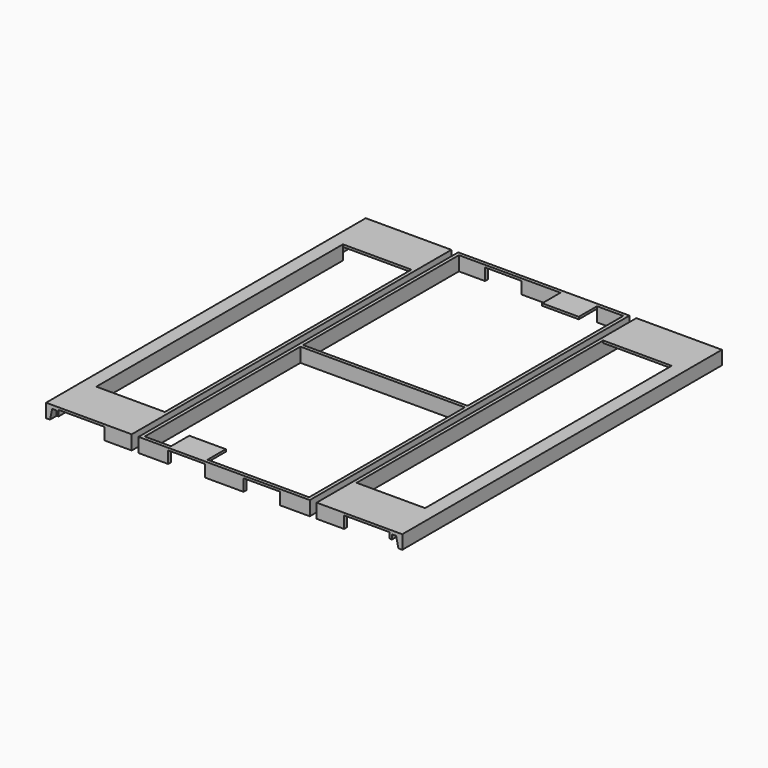
from build123d import *

# Parameters (mm, degrees)
F1_DEPTH  = 175
F2_W      = 19.5
F2_H      = 135
F3_DEPTH  = 1.001
F4_W      = 0.5
F4_H      = 135
F5_DEPTH  = 5.25
F6_W      = 19.5
F6_H      = 135
F7_DEPTH  = 1.001
F8_W      = 0.5
F8_H      = 135
F9_DEPTH  = 5.25
F10_W     = 10.5
F10_H     = 135
F11_DEPTH = 6.251
F12_W     = 10.5
F12_H     = 18.5
F13_DEPTH = 5.25
F14_W     = 1
F14_H     = 20
F15_DEPTH = 2.75
F16_W     = 10.5
F16_H     = 135
F17_DEPTH = 6.251
F18_W     = 10.5
F18_H     = 18.5
F19_DEPTH = 5.25
F20_W     = 1
F20_H     = 20
F21_DEPTH = 2.75
F22_W     = 72
F22_H     = 172
F23_DEPTH = 6.251
F24_W     = 1.5
F24_H     = 6.25
F25_DEPTH = 72
F26_W     = 16
F26_H     = 1
F27_DEPTH = 10
F28_W     = 16
F28_H     = 1
F29_DEPTH = 10


with BuildPart() as f1:
    # F0 (on Front) → F1 (new body)
    with BuildSketch(Plane.XZ):
        Polygon((0, 6.25), (0, 0.25), (1.7, 0.25), (2.7, 4.75), (4.5, 4.75), (4.5, 0), (5.5, 0), (5.5, 5.25), (25.5, 5.25), (25.5, 0), (37.5, 0), (37.5, 6.25), align=None)
        Polygon((115.5, 6.25), (40.5, 6.25), (40.5, 0), (53.5, 0), (53.5, 5.25), (69.5, 5.25), (69.5, 0), (86.5, 0), (86.5, 5.25), (102.5, 5.25), (102.5, 0), (115.5, 0), align=None)
        Polygon((156, 0.25), (156, 6.25), (118.5, 6.25), (118.5, 0), (130.5, 0), (130.5, 5.25), (150.5, 5.25), (150.5, 0), (151.5, 0), (151.5, 4.75), (153.3, 4.75), (154.3, 0.25), align=None)
    extrude(amount=-F1_DEPTH)

    # F2 (on face) → F3 (cut, through all)
    with BuildSketch(Plane(origin=(0, 0, 5.25), x_dir=(1, 0, 0), z_dir=(0, 0, -1))):
        with Locations((15.75, -87.5)):
            Rectangle(F2_W, F2_H)
    extrude(amount=-F3_DEPTH, mode=Mode.SUBTRACT)

    # F4 (on face) → F5 (join)
    with BuildSketch(Plane(origin=(0, 0, 5.25), x_dir=(1, 0, 0), z_dir=(0, 0, -1))):
        with Locations((5.75, -87.5)):
            Rectangle(F4_W, F4_H)
    extrude(amount=F5_DEPTH)

    # F6 (on face) → F7 (cut, through all)
    with BuildSketch(Plane(origin=(0, 0, 5.25), x_dir=(1, 0, 0), z_dir=(0, 0, -1))):
        with Locations((140.25, -87.5)):
            Rectangle(F6_W, F6_H)
    extrude(amount=-F7_DEPTH, mode=Mode.SUBTRACT)

    # F8 (on face) → F9 (join)
    with BuildSketch(Plane(origin=(0, 0, 5.25), x_dir=(1, 0, 0), z_dir=(0, 0, -1))):
        with Locations((150.25, -87.5)):
            Rectangle(F8_W, F8_H)
    extrude(amount=F9_DEPTH)

    # F10 (on face) → F11 (cut, through all)
    with BuildSketch(Plane(origin=(0, 0, 0), x_dir=(1, 0, 0), z_dir=(0, 0, -1))):
        with Locations((30.75, -87.5)):
            Rectangle(F10_W, F10_H)
    extrude(amount=-F11_DEPTH, mode=Mode.SUBTRACT)

    # F12 (on face) → F13 (cut)
    with BuildSketch(Plane(origin=(0, 0, 0), x_dir=(1, 0, 0), z_dir=(0, 0, -1))):
        with Locations((30.75, -10.75)):
            Rectangle(F12_W, F12_H)
        with Locations((30.75, -164.25)):
            Rectangle(F12_W, F12_H)
    extrude(amount=-F13_DEPTH, mode=Mode.SUBTRACT)

    # F14 (on face) → F15 (cut)
    with BuildSketch(Plane(origin=(0, 0, 0), x_dir=(1, 0, 0), z_dir=(0, 0, -1))):
        with Locations((5, -10)):
            Rectangle(F14_W, F14_H)
        with Locations((5, -165)):
            Rectangle(F14_W, F14_H)
    extrude(amount=-F15_DEPTH, mode=Mode.SUBTRACT)

    # F16 (on face) → F17 (cut, through all)
    with BuildSketch(Plane(origin=(0, 0, 0), x_dir=(1, 0, 0), z_dir=(0, 0, -1))):
        with Locations((125.25, -87.5)):
            Rectangle(F16_W, F16_H)
    extrude(amount=-F17_DEPTH, mode=Mode.SUBTRACT)

    # F18 (on face) → F19 (cut)
    with BuildSketch(Plane(origin=(0, 0, 0), x_dir=(1, 0, 0), z_dir=(0, 0, -1))):
        with Locations((125.25, -10.75)):
            Rectangle(F18_W, F18_H)
        with Locations((125.25, -164.25)):
            Rectangle(F18_W, F18_H)
    extrude(amount=-F19_DEPTH, mode=Mode.SUBTRACT)

    # F20 (on face) → F21 (cut)
    with BuildSketch(Plane(origin=(0, 0, 0), x_dir=(1, 0, 0), z_dir=(0, 0, -1))):
        with Locations((151, -10)):
            Rectangle(F20_W, F20_H)
        with Locations((151, -165)):
            Rectangle(F20_W, F20_H)
    extrude(amount=-F21_DEPTH, mode=Mode.SUBTRACT)

    # F22 (on face) → F23 (cut, through all)
    with BuildSketch(Plane.XY.offset(6.25)):
        with Locations((78, 87.5)):
            Rectangle(F22_W, F22_H)
    extrude(amount=-F23_DEPTH, mode=Mode.SUBTRACT)

    # F24 (on face) → F25 (join, through all)
    with BuildSketch(Plane.YZ.offset(42)):
        with Locations((87.5, 3.125)):
            Rectangle(F24_W, F24_H)
    extrude(amount=F25_DEPTH)

    # F26 (on face) → F27 (join)
    with BuildSketch(Plane.XZ.offset(-173.5)):
        with Locations((94.5, 5.75)):
            Rectangle(F26_W, F26_H)
    extrude(amount=F27_DEPTH)

    # F28 (on face) → F29 (join)
    with BuildSketch(Plane(origin=(0, 1.5, 0), x_dir=(-1, 0, 0), z_dir=(0, 1, 0))):
        with Locations((-61.5, 5.75)):
            Rectangle(F28_W, F28_H)
    extrude(amount=F29_DEPTH)


solid = f1.part
